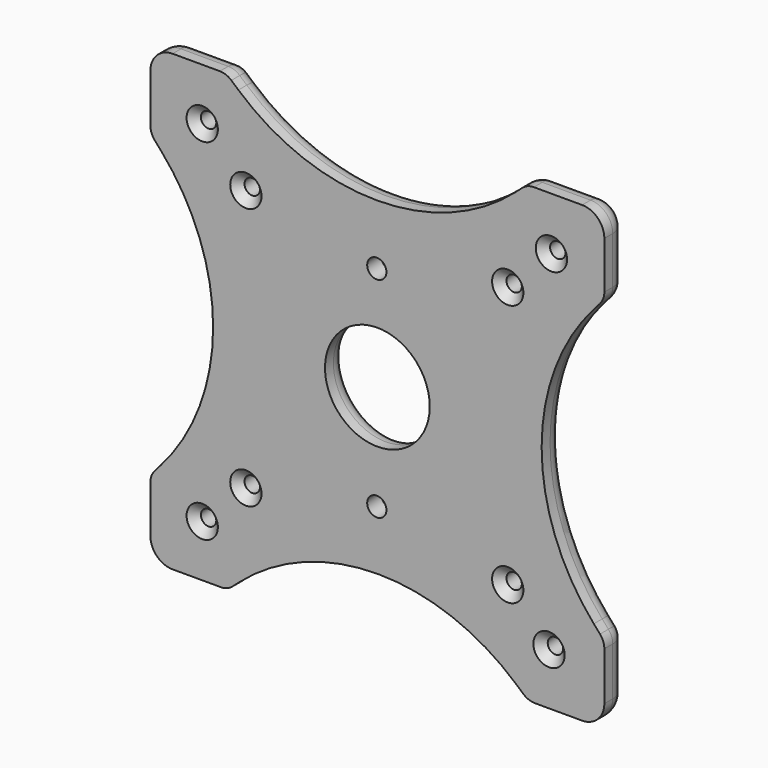
from build123d import *

# Parameters (mm, degrees)
F0_R           = 15
F1_DEPTH       = 8
F3_D           = 4.4
F3_CSINK_D     = 8.96
F3_CSINK_ANGLE = 90
F5_D           = 5.5
F5_CSINK_D     = 11.2
F5_CSINK_ANGLE = 90
F6_R           = 5


with BuildPart() as f1:
    # F0 (on Front) → F1 (new body)
    with BuildSketch(Plane.XZ):
        with BuildLine():
            Line((-44.9550832745, 65.1504273235), (-58.4898427156, 65.1504273235))
            ThreePointArc((-58.4898427156, 65.1504273235), (-62.9799707761, 63.290555384), (-64.8398427156, 58.8004273235))
            Line((-64.8398427156, 58.8004273235), (-64.8398427156, 44.9648132355))
            ThreePointArc((-64.8398427156, 44.9648132355), (-64.5186166173, 43.2015563694), (-63.5962128052, 41.6648611525))
            Line((-63.5962128052, 41.6648611525), (-61.8242943859, 39.6478678193))
            ThreePointArc((-61.8242943859, 39.6478678193), (-46.8824791526, 0), (-61.8242943859, -39.6478678193))
            Line((-61.8242943859, -39.6478678193), (-63.5962128052, -41.6648611525))
            ThreePointArc((-63.5962128052, -41.6648611525), (-64.5186166173, -43.2015563694), (-64.8398427156, -44.9648132355))
            Line((-64.8398427156, -44.9648132355), (-64.8398427156, -58.4995726765))
            ThreePointArc((-64.8398427156, -58.4995726765), (-62.9799707761, -62.989700737), (-58.4898427156, -64.8495726765))
            Line((-58.4898427156, -64.8495726765), (-44.6542286275, -64.8495726765))
            ThreePointArc((-44.6542286275, -64.8495726765), (-42.8909717614, -64.5283465783), (-41.3542765446, -63.6059427661))
            Line((-41.3542765446, -63.6059427661), (-39.3372832113, -61.8340243469))
            ThreePointArc((-39.3372832113, -61.8340243469), (0.3105846079, -46.8922091135), (39.9584524272, -61.8340243469))
            Line((39.9584524272, -61.8340243469), (41.9754457605, -63.6059427661))
            ThreePointArc((41.9754457605, -63.6059427661), (43.5121409773, -64.5283465783), (45.2753978434, -64.8495726765))
            Line((45.2753978434, -64.8495726765), (58.8101572844, -64.8495726765))
            ThreePointArc((58.8101572844, -64.8495726765), (63.300285345, -62.989700737), (65.1601572844, -58.4995726765))
            Line((65.1601572844, -58.4995726765), (65.1601572844, -44.6639585885))
            ThreePointArc((65.1601572844, -44.6639585885), (64.8389311862, -42.9007017224), (63.9165273741, -41.3640065055))
            Line((63.9165273741, -41.3640065055), (62.1446089548, -39.3470131723))
            ThreePointArc((62.1446089548, -39.3470131723), (47.2027937215, 0.300854647), (62.1446089548, 39.9487224663))
            Line((62.1446089548, 39.9487224663), (63.9165273741, 41.9657157995))
            ThreePointArc((63.9165273741, 41.9657157995), (64.8389311862, 43.5024110164), (65.1601572844, 45.2656678825))
            Line((65.1601572844, 45.2656678825), (65.1601572844, 58.8004273235))
            ThreePointArc((65.1601572844, 58.8004273235), (63.300285345, 63.290555384), (58.8101572844, 65.1504273235))
            Line((58.8101572844, 65.1504273235), (44.9745431964, 65.1504273235))
            ThreePointArc((44.9745431964, 65.1504273235), (43.2112863303, 64.8292012253), (41.6745911135, 63.9067974131))
            Line((41.6745911135, 63.9067974131), (39.6575977802, 62.1348789939))
            ThreePointArc((39.6575977802, 62.1348789939), (0.0097299609, 47.1930637605), (-39.6381378583, 62.1348789939))
            Line((-39.6381378583, 62.1348789939), (-41.6551311916, 63.9067974131))
            ThreePointArc((-41.6551311916, 63.9067974131), (-43.1918264084, 64.8292012253), (-44.9550832745, 65.1504273235))
        make_face()
        with Locations((0.1601572844, 0.1504273235)):
            Circle(F0_R, mode=Mode.SUBTRACT)
    extrude(amount=F1_DEPTH)

    # F3 (through all)
    with Locations(Plane.XZ.offset(8)):
        with Locations((-50, 50.2785483839), (50, 50), (49.3192886108, -50), (-50, -50), (-37.5, 37.5), (37.5, 37.5), (37.5, -37.5), (-37.5, -37.5)):
            CounterSinkHole(F3_D / 2, F3_CSINK_D / 2, counter_sink_angle=F3_CSINK_ANGLE)

    # F5 (through all)
    with Locations(Plane(origin=(0, 0, 0), x_dir=(-1, 0, 0), z_dir=(0, 1, 0))):
        with Locations((0, -30), (0, 30)):
            CounterSinkHole(F5_D / 2, F5_CSINK_D / 2, counter_sink_angle=F5_CSINK_ANGLE)

    # F6
    f6_edges = [f1.edges().sort_by_distance(p)[0] for p in [
        (-51.572036, 0, -64.849573),
        (63.300285, 0, -62.989701),
        (65.160157, 0, 52.033048),
        (-62.979971, 0, -62.989701),
        (-64.839843, 0, 51.88262),
        (-62.979971, 0, 63.290555),
        (-51.722463, 0, 65.150427),
        (63.300285, 0, 63.290555),
        (-14.839843, 0, 0.150427),
    ]]
    fillet(f6_edges, radius=F6_R)


solid = f1.part
